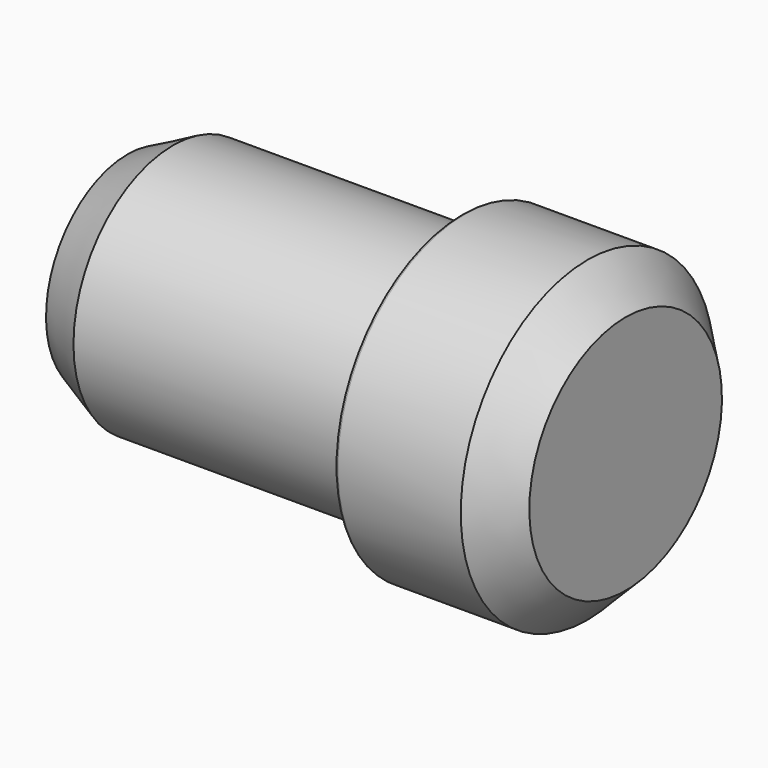
from build123d import *

# Parameters (mm, degrees)
F2_R     = 0.508
F3_SIZE  = 6.35
F4_SIZE2 = 3.81
F4_SIZE  = 7.62


with BuildPart() as f1:
    # F0 (on Front) → F1 (revolve)
    with BuildSketch(Plane.XZ):
        Polygon((55.7449534535, 20.7715928555), (0, 20.7715928555), (0, 0), (83.0746293068, 0), (83.0746293068, 26.4260116965), (55.7449534535, 26.4260116965), align=None)
    revolve(axis=Axis((60.4887977242, 0, 0), (1, 0, 0)))

    # F2
    f2_edges = [f1.edges().sort_by_distance(p)[0] for p in [
        (55.744953, 0, -26.426012),
    ]]
    fillet(f2_edges, radius=F2_R)

    # F3
    f3_edges = [f1.edges().sort_by_distance(p)[0] for p in [
        (83.074629, 0, -26.426012),
    ]]
    chamfer(f3_edges, length=F3_SIZE)

    # F4
    f4_edges = [f1.edges().sort_by_distance(p)[0] for p in [
        (0, 0, -20.771593),
    ]]
    f4_side = f1.faces().sort_by_distance((27.872477, 0, -20.771593))[0]
    chamfer(f4_edges, length=F4_SIZE, length2=F4_SIZE2, reference=f4_side)


solid = f1.part
